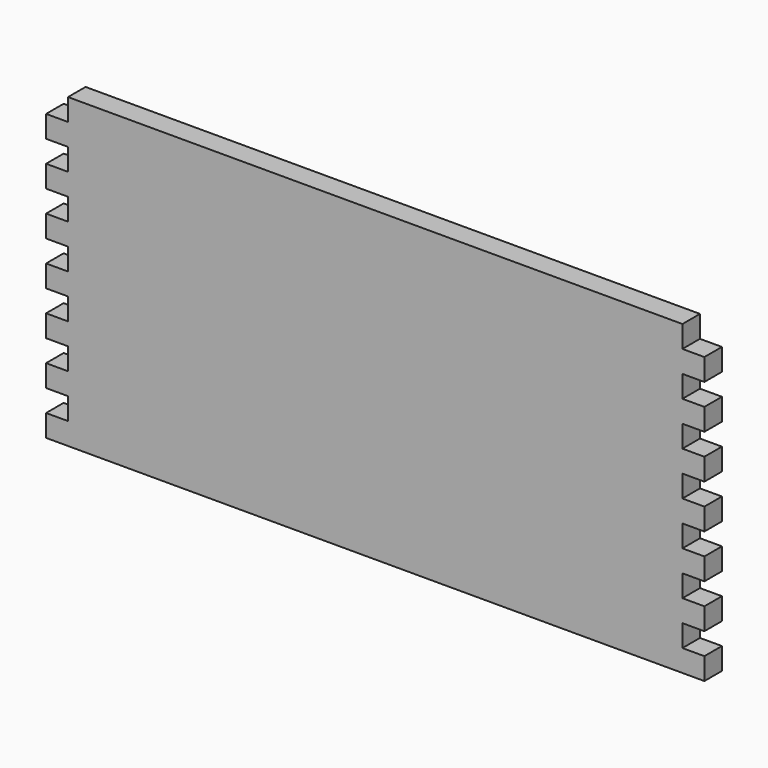
from build123d import *

# Parameters (mm, degrees)
F0_W     = 600
F0_H     = 280
F1_DEPTH = 20
F2_W     = 20
F2_H     = 20
F3_DEPTH = 20


with BuildPart() as f1:
    # F0 (on Front) → F1 (new body)
    with BuildSketch(Plane.XZ):
        Rectangle(F0_W, F0_H)
    extrude(amount=F1_DEPTH)

    # F2 (on face) → F3 (cut, through all)
    with BuildSketch(Plane.XZ.offset(20)):
        with Locations((-290, -110)):
            Rectangle(F2_W, F2_H)
        with Locations((-290, -70)):
            Rectangle(F2_W, F2_H)
        with Locations((-290, -30)):
            Rectangle(F2_W, F2_H)
        with Locations((-290, 10)):
            Rectangle(F2_W, F2_H)
        with Locations((-290, 50)):
            Rectangle(F2_W, F2_H)
        with Locations((-290, 90)):
            Rectangle(F2_W, F2_H)
        with Locations((-290, 130)):
            Rectangle(F2_W, F2_H)
        with Locations((290, -110)):
            Rectangle(F2_W, F2_H)
        with Locations((290, 50)):
            Rectangle(F2_W, F2_H)
        with Locations((290, 90)):
            Rectangle(F2_W, F2_H)
        with Locations((290, 130)):
            Rectangle(F2_W, F2_H)
        with Locations((290, 10)):
            Rectangle(F2_W, F2_H)
        with Locations((290, -70)):
            Rectangle(F2_W, F2_H)
        with Locations((290, -30)):
            Rectangle(F2_W, F2_H)
    extrude(amount=-F3_DEPTH, mode=Mode.SUBTRACT)


solid = f1.part
